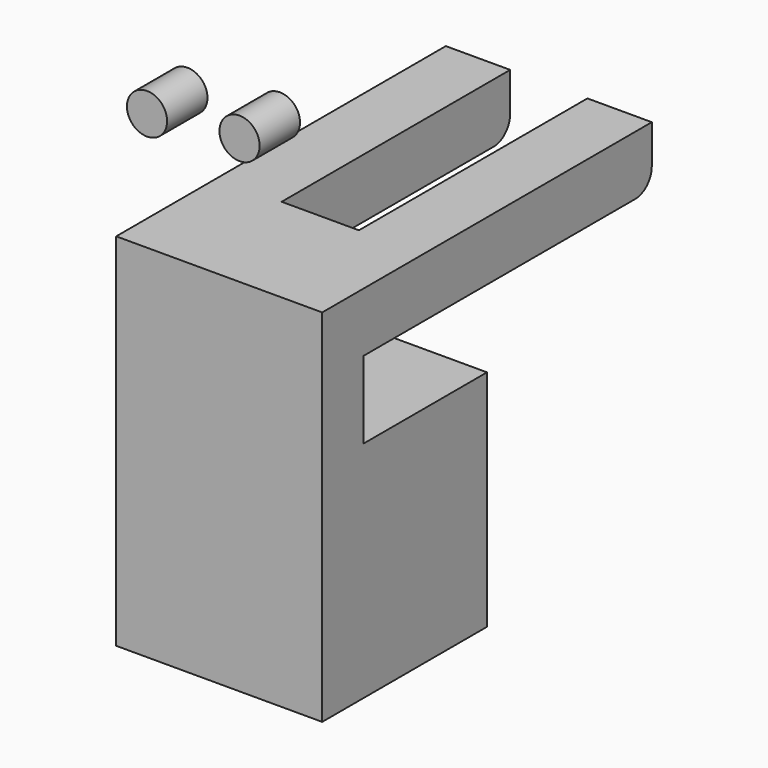
from build123d import *

# Parameters (mm, degrees)
F1_DEPTH = 40
F3_DEPTH = 13
F4_DEPTH = 30
F5_R     = 4.1
F6_DEPTH = 10
F7_R     = 3.9
F8_DEPTH = 9.8


with BuildPart() as f1:
    # F0 (on Right) → F1 (new body)
    with BuildSketch(Plane.YZ):
        with BuildLine():
            Line((80, 0), (0, 0))
            Line((0, 0), (0, -40))
            Line((0, -40), (40, -40))
            Line((40, -40), (40, -26.5))
            Line((40, -26.5), (10, -26.5))
            Line((10, -26.5), (10, -11.5))
            Line((10, -11.5), (76, -11.5))
            ThreePointArc((76, -11.5), (78.8284271247, -10.3284271247), (80, -7.5))
            Line((80, -7.5), (80, 0))
        make_face()
    extrude(amount=F1_DEPTH)

    # F2 (on face) → F3 (cut)
    with BuildSketch(Plane.XY):
        Polygon((23.5, 61.394763397), (27.5, 55.0439104359), (27.5, 80), (12.5, 80), (12.5, 54.4665601667), (16, 61.1060882624), align=None)
        Polygon((16.5, 48.1157072056), (24, 48.4043823402), (27.5, 55.0439104359), (23.5, 61.394763397), (16, 61.1060882624), (12.5, 54.4665601667), align=None)
        Polygon((27.5, 55.0439104359), (24, 48.4043823402), (16.5, 48.1157072056), (12.5, 54.4665601667), (12.5, 24.5333899457), (27.5, 24.5333899457), align=None)
    extrude(amount=-F3_DEPTH, mode=Mode.SUBTRACT)

    # F4 (add): a face of the model
    f4_faces = [f1.faces().sort_by_distance(p)[0] for p in [
        (20, 20, -40),
    ]]
    extrude(f4_faces, amount=F4_DEPTH)

    # F5 (on face) → F6 (cut)
    with BuildSketch(Plane(origin=(0, 80, 0), x_dir=(-1, 0, 0), z_dir=(0, 1, 0))):
        with Locations((-33.75, -6.25)):
            Circle(F5_R)
        with BuildLine():
            Line((-2.3451952674, -7.5), (-10.1548047326, -7.5))
            ThreePointArc((-10.1548047326, -7.5), (-6.25, -10.35), (-2.3451952674, -7.5))
        make_face()
        with BuildLine():
            ThreePointArc((-2.3451952674, -7.5), (-2.199092731, -6.882574342), (-2.15, -6.25))
            ThreePointArc((-2.15, -6.25), (-6.882574342, -2.199092731), (-10.1548047326, -7.5))
            Line((-10.1548047326, -7.5), (-2.3451952674, -7.5))
        make_face()
    extrude(amount=-F6_DEPTH, mode=Mode.SUBTRACT)


with BuildPart() as f8:
    # F7 (on Front) → F8 (new body)
    with BuildSketch(Plane.XZ):
        with Locations((31.7894656528, 31.0638957384)):
            Circle(F7_R)
    extrude(amount=F8_DEPTH)


with BuildPart() as f8b:
    # F7 (on Front) → F8, piece 2 (new body)
    with BuildSketch(Plane.XZ):
        with Locations((13.8255626981, 29.4308128513)):
            Circle(F7_R)
    extrude(amount=F8_DEPTH)


solid = Compound([f1.part, f8.part, f8b.part])
